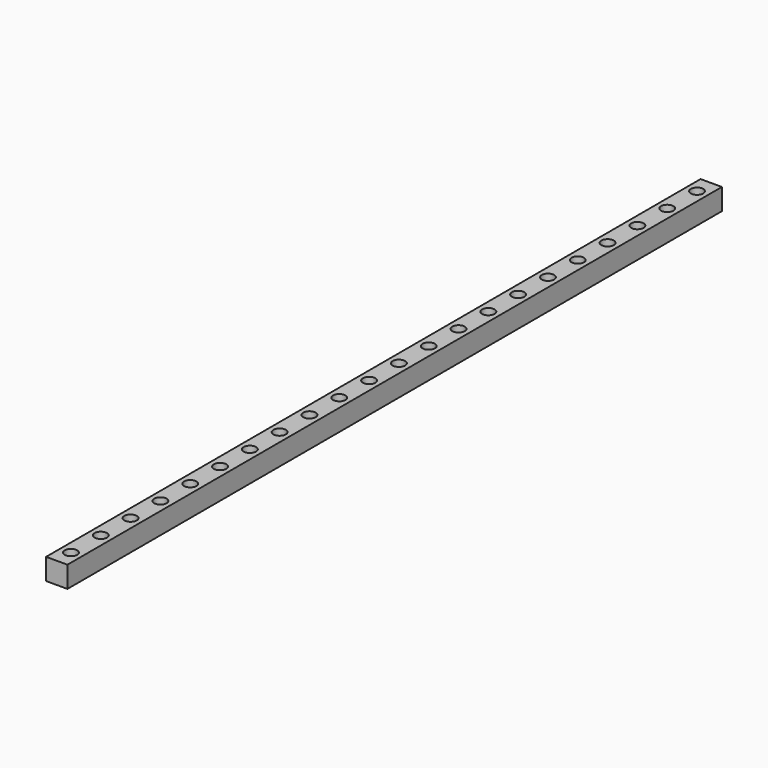
from build123d import *

# Parameters (mm, degrees)
SKETCH_W            = 6
SKETCH_H            = 6
PAD_DEPTH           = 230
SKETCH001_R         = 1.75
POCKET_DEPTH        = 6.001
LINEARPATTERN_COUNT = 22
LINEARPATTERN_PITCH = 10.47619


with BuildPart() as part:
    # Sketch → Pad (new body)
    with BuildSketch(Plane.XZ):
        Rectangle(SKETCH_W, SKETCH_H)
    extrude(amount=PAD_DEPTH)

    # Sketch001 → Pocket (cut, through all)
    with BuildSketch(Plane(origin=(0, 0, 3), x_dir=(-1, 0, 0), z_dir=(0, 0, 1))):
        with Locations((0, 5)):
            Circle(SKETCH001_R)
    pocket = extrude(amount=-POCKET_DEPTH, mode=Mode.SUBTRACT)

    # LinearPattern: Pocket ×22
    with Locations(*[(0, -i * LINEARPATTERN_PITCH, 0) for i in range(1, LINEARPATTERN_COUNT)]):
        add(pocket, mode=Mode.SUBTRACT)


solid = part.part
